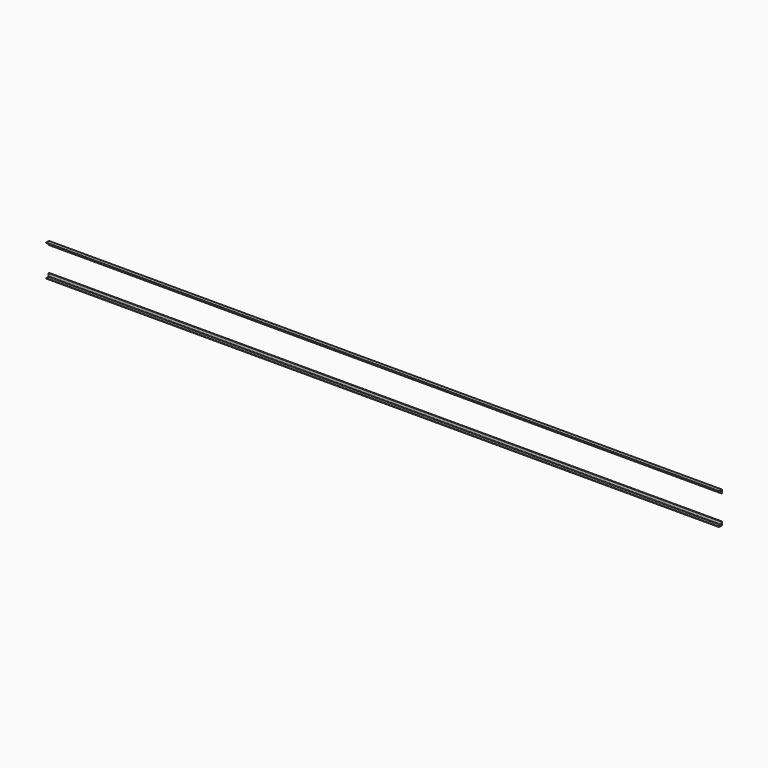
from build123d import *

# Parameters (mm, degrees)
EXTRUDE017_DEPTH = 17000
EXTRUDE018_DEPTH = 17000


with BuildPart() as extrude017:
    # AngleSteel004 → Extrude017 (new body)
    with BuildSketch(Plane(origin=(0, 53.415282, 39.015282), x_dir=(0, 1, 0), z_dir=(-1, 0, 0))):
        with BuildLine():
            Line((-24.615282, 24.615282), (-24.615282, -65.384718))
            Line((-24.615282, -65.384718), (-22.615282, -65.384718))
            ThreePointArc((-22.615282, -65.384718), (-19.079748, -63.920252), (-17.615282, -60.384718))
            Line((-17.615282, -60.384718), (-17.615282, 7.615282))
            ThreePointArc((-17.615282, 7.615282), (-14.68635, 14.68635), (-7.615282, 17.615282))
            Line((-7.615282, 17.615282), (60.384718, 17.615282))
            ThreePointArc((60.384718, 17.615282), (63.920252, 19.079748), (65.384718, 22.615282))
            Line((65.384718, 22.615282), (65.384718, 24.615282))
            Line((65.384718, 24.615282), (-24.615282, 24.615282))
        make_face()
    extrude(amount=-EXTRUDE017_DEPTH)


with BuildPart() as fusion001:
    # Mirror → Extrude018 (new body)
    with BuildSketch(Plane(origin=(0, 53.415282, 789.777402), x_dir=(0, -1, 0), z_dir=(1, 0, 0))):
        with BuildLine():
            Line((24.615282, -24.615282), (24.615282, 65.384718))
            Line((24.615282, 65.384718), (22.615282, 65.384718))
            ThreePointArc((22.615282, 65.384718), (19.079748, 63.920252), (17.615282, 60.384718))
            Line((17.615282, 60.384718), (17.615282, -7.615282))
            ThreePointArc((17.615282, -7.615282), (14.68635, -14.68635), (7.615282, -17.615282))
            Line((7.615282, -17.615282), (-60.384718, -17.615282))
            ThreePointArc((-60.384718, -17.615282), (-63.920252, -19.079748), (-65.384718, -22.615282))
            Line((-65.384718, -22.615282), (-65.384718, -24.615282))
            Line((-65.384718, -24.615282), (24.615282, -24.615282))
        make_face()
    extrude(amount=EXTRUDE018_DEPTH)

    # Fusion001: union Extrude017
    add(extrude017.part)


with BuildPart() as fusion_mirrored:
    # Mirror001: instance of Fusion001
    add(fusion001.part.mirror(Plane(origin=(0, 28.796342, 514.396342), x_dir=(-1, 0, 0), z_dir=(0, -1, 0))))


with BuildPart() as fusion_mirrored_1:
    # Mirror001 placement: moved
    add(fusion_mirrored.part.moved(Location((0, -6, 0))))


solid = fusion_mirrored_1.part
